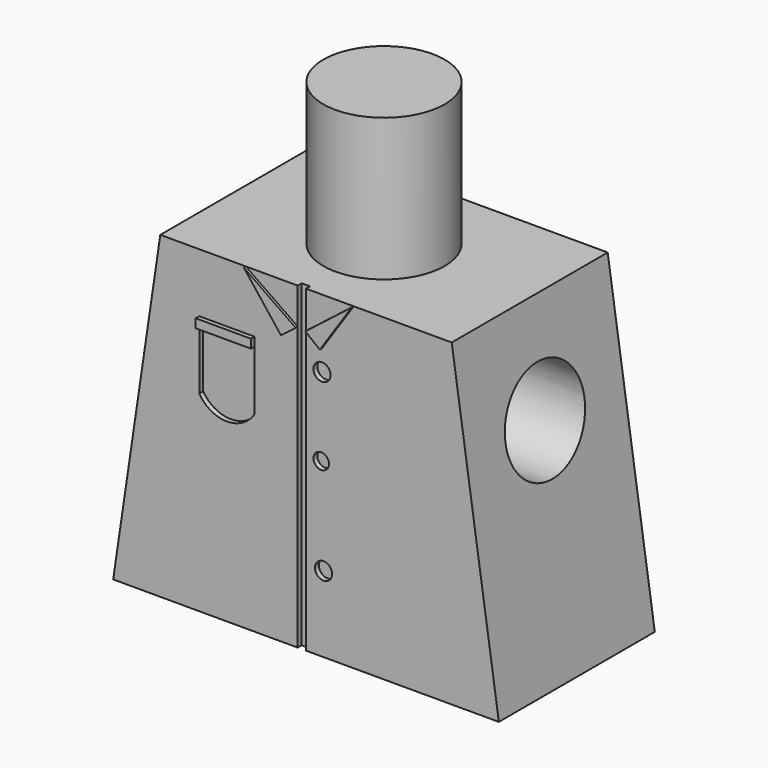
from build123d import *

# Parameters (mm, degrees)
F0_W      = 15.55
F0_H      = 12.85
F1_DEPTH  = 7.86
F2_R      = 2.445
F3_DEPTH  = 5.74
F4_R      = 1.99
F5_DEPTH  = 25
F7_DEPTH  = 25
F8_R      = 0.314277
F8_R_2    = 0.345703
F9_DEPTH  = 0.2
F8_W      = 0.334352
F8_H      = 12.85
F10_DEPTH = 0.2
F12_DEPTH = 0.1
F13_W     = 2.232052
F13_H     = 0.354293
F14_DEPTH = 0.18
F15_DEPTH = 0.2


with BuildPart() as f1:
    # F0 (on Front) → F1 (new body)
    with BuildSketch(Plane.XZ):
        with Locations((-41.583441, 38.916974)):
            Rectangle(F0_W, F0_H)
    extrude(amount=F1_DEPTH)

    # F2 (on face) → F3 (join)
    with BuildSketch(Plane.XY.offset(45.341974)):
        with Locations((-41.583441, -3.93)):
            Circle(F2_R)
    extrude(amount=F3_DEPTH)

    # F4 (on face) → F5 (cut)
    with BuildSketch(Plane.YZ.offset(-33.808441)):
        with Locations((-3.93, 41.181974)):
            Circle(F4_R)
    extrude(amount=-F5_DEPTH, mode=Mode.SUBTRACT)

    # F6 (on face) → F7 (cut)
    with BuildSketch(Plane.XZ.offset(7.86)):
        Polygon((-49.358441, 45.341974), (-49.358441, 32.491974), (-47.458441, 45.341974), align=None)
        Polygon((-35.708441, 45.341974), (-33.808441, 32.491974), (-33.808441, 45.341974), align=None)
    extrude(amount=-F7_DEPTH, mode=Mode.SUBTRACT)

    # F8 (on face) → F9 (cut)
    with BuildSketch(Plane.XZ.offset(7.86)):
        with Locations((-40.971532, 39.419685)):
            Circle(F8_R)
        with Locations((-40.940102, 42.593867)):
            Circle(F8_R_2)
        with Locations((-40.877249, 35.554096)):
            Circle(F8_R_2)
    extrude(amount=-F9_DEPTH, mode=Mode.SUBTRACT)

    # F8 (on face) → F10 (cut)
    with BuildSketch(Plane.XZ.offset(7.86)):
        with Locations((-40.940102, 42.593867)):
            Circle(F8_R_2)
        with Locations((-40.971532, 39.419685)):
            Circle(F8_R)
        with Locations((-40.877249, 35.554096)):
            Circle(F8_R_2)
        with Locations((-41.750617, 38.916974)):
            Rectangle(F8_W, F8_H)
    extrude(amount=-F10_DEPTH, mode=Mode.SUBTRACT)

    # F11 (on face) → F12 (join)
    with BuildSketch(Plane.XZ.offset(7.86)):
        Polygon((-42.515382, 43.422379), (-41.917793, 43.885078), (-44.012314, 45.341974), align=None)
        Polygon((-39.660979, 45.341974), (-41.529234, 43.885078), (-40.948099, 43.422379), align=None)
    extrude(amount=F12_DEPTH)

    # F13 (on face) → F14 (join)
    with BuildSketch(Plane.XZ.offset(7.86)):
        with Locations((-44.771414, 42.786905)):
            Rectangle(F13_W, F13_H)
    extrude(amount=F14_DEPTH)

    # F13 (on face) → F15 (cut)
    with BuildSketch(Plane.XZ.offset(7.86)):
        with BuildLine():
            Line((-43.655388, 42.609759), (-45.88744, 42.609759))
            Line((-45.88744, 42.609759), (-45.88744, 40.218275))
            ThreePointArc((-45.88744, 40.218275), (-44.771414, 39.590548), (-43.655388, 40.218275))
            Line((-43.655388, 40.218275), (-43.655388, 42.609759))
        make_face()
    extrude(amount=-F15_DEPTH, mode=Mode.SUBTRACT)


solid = f1.part
